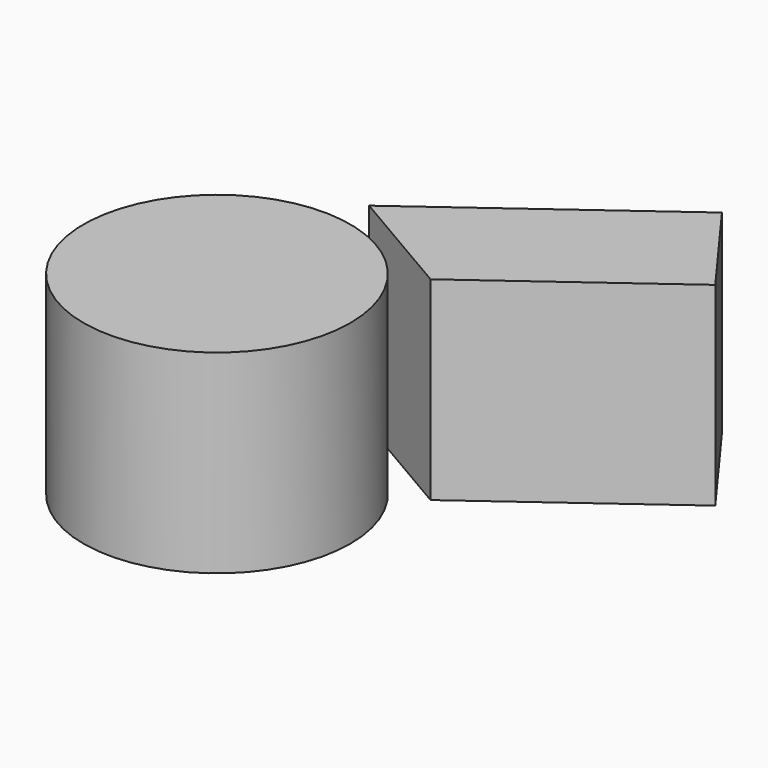
from build123d import *

# Parameters (mm, degrees)
F0_R     = 17.441362
F1_DEPTH = 25.4


with BuildPart() as f1:
    # F0 (on Top) → F1 (new body)
    with BuildSketch(Plane.XY):
        Circle(F0_R)
        Polygon((31.802539, 42.739153), (2.734156, 21.441529), (17.798473, 12.645803), (41.257883, 29.833884), align=None)
    extrude(amount=F1_DEPTH)


solid = f1.part
